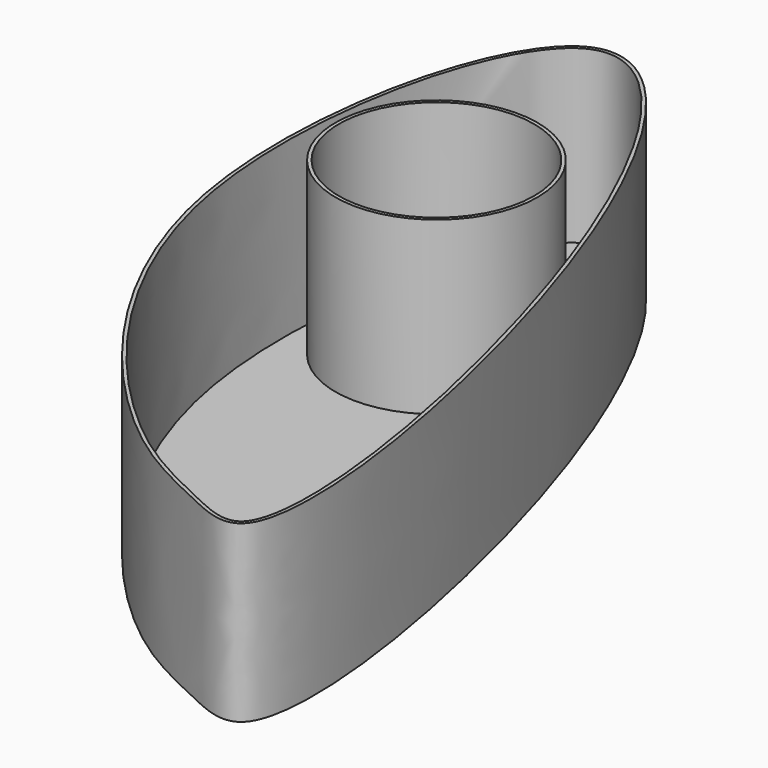
from build123d import *

# Parameters (mm, degrees)
F0_R     = 70.903721717
F1_DEPTH = 127
F2_T     = -2.54


with BuildPart() as f1:
    # F0 (on Top) → F1 (new body)
    with BuildSketch(Plane.XY):
        with BuildLine():
            add(Edge.make_bspline(
                [(579.0491700172, -12.206020765), (638.7390870234, -165.9276064452), (693.2826893998, -454.2886386731), (598.0153868816, -405.9720821625), (522.3343827961, -373.2338674079), (323.465180189, -144.4886036698), (419.0364037085, 270.0727907785), (534.8074431481, 101.7312863828), (579.0491700172, -12.206020765)],
                knots=[0, 0, 0, 0, 0.2377799912, 0.316160294, 0.4236851453, 0.6256053607, 0.8237592218, 1, 1, 1, 1], degree=3))
        make_face()
        with Locations((455.3760588169, 0)):
            Circle(F0_R, mode=Mode.SUBTRACT)
    extrude(amount=F1_DEPTH)

    # F2
    f2_openings = [f1.faces().sort_by_distance(p)[0] for p in [
        (520.002699, -153.718496, 127),
    ]]
    offset(amount=F2_T, openings=f2_openings)


solid = f1.part
